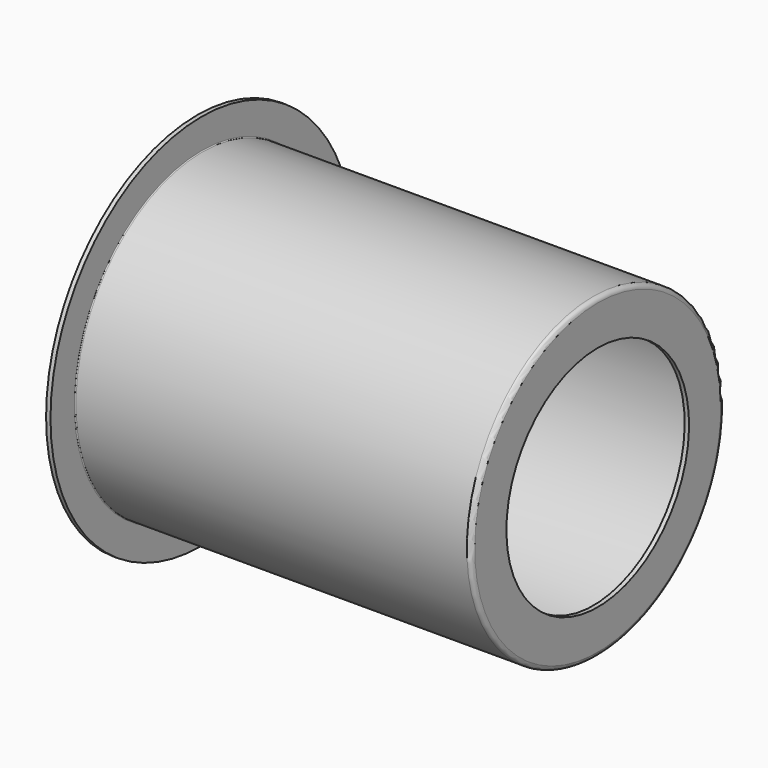
from build123d import *


with BuildPart() as f1:
    # F0 (on Front) → F1 (revolve)
    with BuildSketch(Plane.XZ):
        with BuildLine():
            Line((-5, 179.7), (-449, 179.7))
            ThreePointArc((-449, 179.7), (-449.707107, 179.992893), (-450, 180.7))
            Line((-450, 180.7), (-450, 214.7))
            Line((-450, 214.7), (-455, 214.7))
            Line((-455, 214.7), (-455, 176))
            ThreePointArc((-455, 176), (-454.619239, 175.080761), (-453.7, 174.7))
            Line((-453.7, 174.7), (-9.7, 174.7))
            ThreePointArc((-9.7, 174.7), (-6.376598, 173.323402), (-5, 170))
            Line((-5, 170), (-5, 129.7))
            Line((-5, 129.7), (0, 129.7))
            Line((0, 129.7), (0, 174.7))
            ThreePointArc((0, 174.7), (-1.464466, 178.235534), (-5, 179.7))
        make_face()
    revolve(axis=Axis((9.014154, 0, 0), (1, 0, 0)))


solid = f1.part
